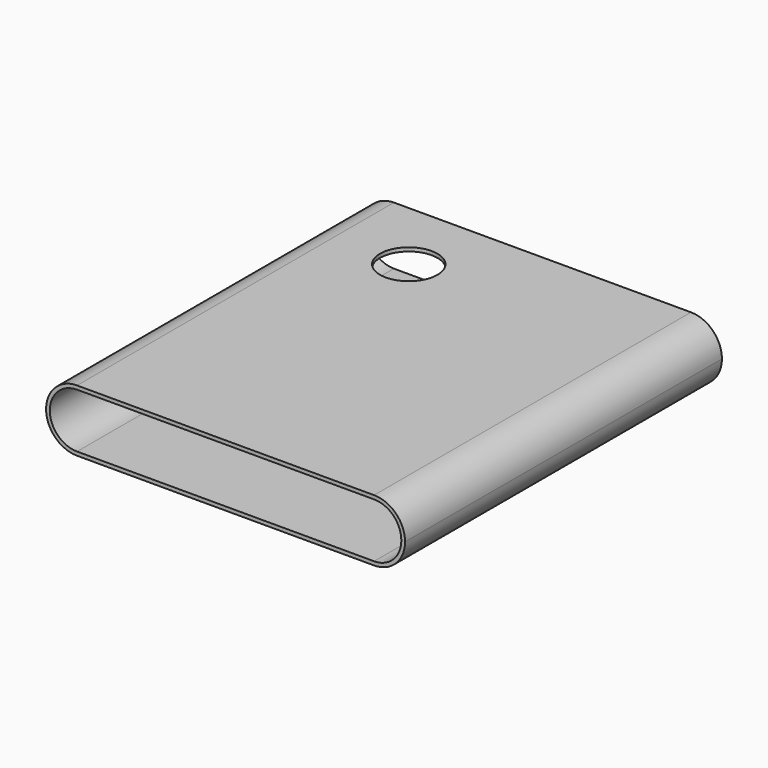
from build123d import *

# Parameters (mm, degrees)
F2_DEPTH = 203.2
F3_DEPTH = 203.201
F4_R     = 14.7187970876
F5_DEPTH = 12.7


with BuildPart() as f2:
    # F0 (on Front) → F2 (new body)
    with BuildSketch(Plane.XZ):
        with BuildLine():
            Line((-76.2, 15.875), (-76.2, 0))
            Line((-76.2, 0), (-60.325, 0))
            ThreePointArc((-60.325, 0), (-64.9746798487, 11.2253201513), (-76.2, 15.875))
        make_face()
        with BuildLine():
            Line((-60.325, 0), (-76.2, 0))
            Line((-76.2, 0), (-76.2, -15.875))
            ThreePointArc((-76.2, -15.875), (-64.9746798487, -11.2253201513), (-60.325, 0))
        make_face()
        with BuildLine():
            Line((-76.2, -15.875), (-76.2, 0))
            Line((-76.2, 0), (-76.2, 15.875))
            ThreePointArc((-76.2, 15.875), (-92.075, 0), (-76.2, -15.875))
        make_face()
        with BuildLine():
            ThreePointArc((-76.2, 15.875), (-64.9746798487, 11.2253201513), (-60.325, 0))
            Line((-60.325, 0), (60.325, 0))
            ThreePointArc((60.325, 0), (64.9746798487, 11.2253201513), (76.2, 15.875))
            Line((76.2, 15.875), (-76.2, 15.875))
        make_face()
        with BuildLine():
            Line((60.325, 0), (-60.325, 0))
            ThreePointArc((-60.325, 0), (-64.9746798487, -11.2253201513), (-76.2, -15.875))
            Line((-76.2, -15.875), (76.2, -15.875))
            ThreePointArc((76.2, -15.875), (64.9746798487, -11.2253201513), (60.325, 0))
        make_face()
        with BuildLine():
            ThreePointArc((76.2, 15.875), (64.9746798487, 11.2253201513), (60.325, 0))
            Line((60.325, 0), (76.2, 0))
            Line((76.2, 0), (76.2, 15.875))
        make_face()
        with BuildLine():
            Line((76.2, 0), (60.325, 0))
            ThreePointArc((60.325, 0), (64.9746798487, -11.2253201513), (76.2, -15.875))
            Line((76.2, -15.875), (76.2, 0))
        make_face()
        with BuildLine():
            Line((76.2, 0), (76.2, -15.875))
            ThreePointArc((76.2, -15.875), (87.4253201513, -11.2253201513), (92.075, 0))
            ThreePointArc((92.075, 0), (87.4253201513, 11.2253201513), (76.2, 15.875))
            Line((76.2, 15.875), (76.2, 0))
        make_face()
    extrude(amount=F2_DEPTH)

    # F1 (on Front) → F3 (cut, through all)
    with BuildSketch(Plane.XZ):
        with BuildLine():
            ThreePointArc((76.2, -13.97), (62.23, 0), (76.2, 13.97))
            Line((76.2, 13.97), (-76.2, 13.97))
            ThreePointArc((-76.2, 13.97), (-66.3217182668, 9.8782817332), (-62.23, 0))
            ThreePointArc((-62.23, 0), (-66.3217182668, -9.8782817332), (-76.2, -13.97))
            Line((-76.2, -13.97), (76.2, -13.97))
        make_face()
        with BuildLine():
            ThreePointArc((90.17, 0), (86.0782817332, 9.8782817332), (76.2, 13.97))
            Line((76.2, 13.97), (76.2, -13.97))
            ThreePointArc((76.2, -13.97), (86.0782817332, -9.8782817332), (90.17, 0))
        make_face()
        with BuildLine():
            Line((76.2, -13.97), (76.2, 13.97))
            ThreePointArc((76.2, 13.97), (62.23, 0), (76.2, -13.97))
        make_face()
        with BuildLine():
            ThreePointArc((-62.23, 0), (-66.3217182668, 9.8782817332), (-76.2, 13.97))
            Line((-76.2, 13.97), (-76.2, -13.97))
            ThreePointArc((-76.2, -13.97), (-66.3217182668, -9.8782817332), (-62.23, 0))
        make_face()
        with BuildLine():
            Line((-76.2, -13.97), (-76.2, 13.97))
            ThreePointArc((-76.2, 13.97), (-90.17, 0), (-76.2, -13.97))
        make_face()
    extrude(amount=F3_DEPTH, mode=Mode.SUBTRACT)

    # F4 (on face) → F5 (cut)
    with BuildSketch(Plane.XY.offset(15.875)):
        with Locations((-38.1, -38.1)):
            Circle(F4_R)
    extrude(amount=-F5_DEPTH, mode=Mode.SUBTRACT)


solid = f2.part
